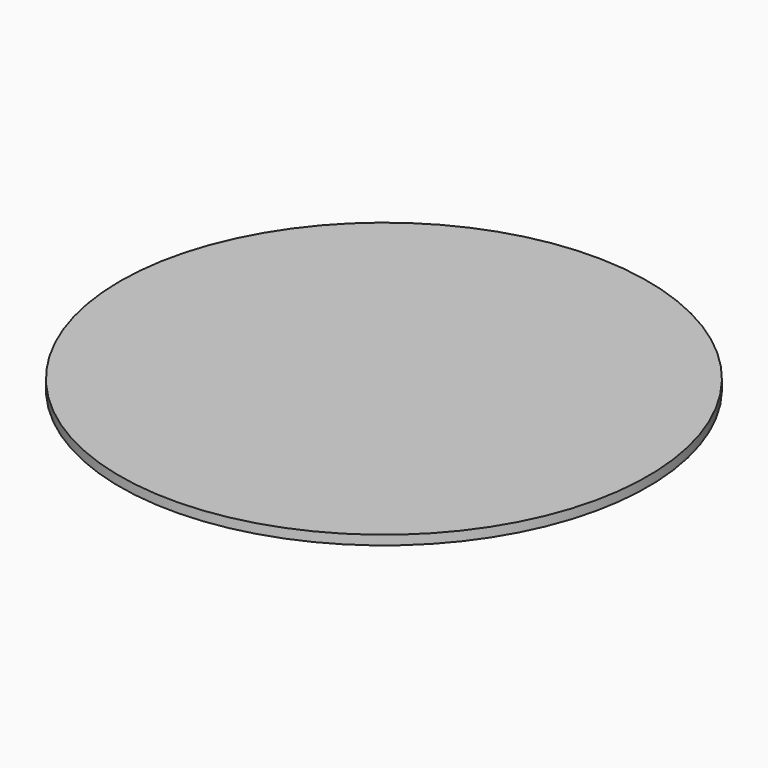
from build123d import *

# Parameters (mm, degrees)
F0_W = 0.508
F0_H = 1.27


with BuildPart() as f1:
    # F0 (on Front) → F1 (revolve)
    with BuildSketch(Plane.XZ):
        Polygon((21.417418, 4.309946), (-35.478582, 4.309946), (-35.478582, 2.277946), (-25.318582, 2.277946), (-24.810582, 2.277946), (-18.206582, 2.277946), (-17.698582, 2.277946), (-11.094582, 2.277946), (-10.586582, 2.277946), (21.417418, 2.277946), align=None)
        with Locations((-25.064582, 1.642946)):
            Rectangle(F0_W, F0_H)
        with Locations((-10.840582, 1.642946)):
            Rectangle(F0_W, F0_H)
        with Locations((-17.952582, 1.642946)):
            Rectangle(F0_W, F0_H)
    revolve(axis=Axis((21.417418, 0, 3.293946), (0, 0, -1)))


solid = f1.part
